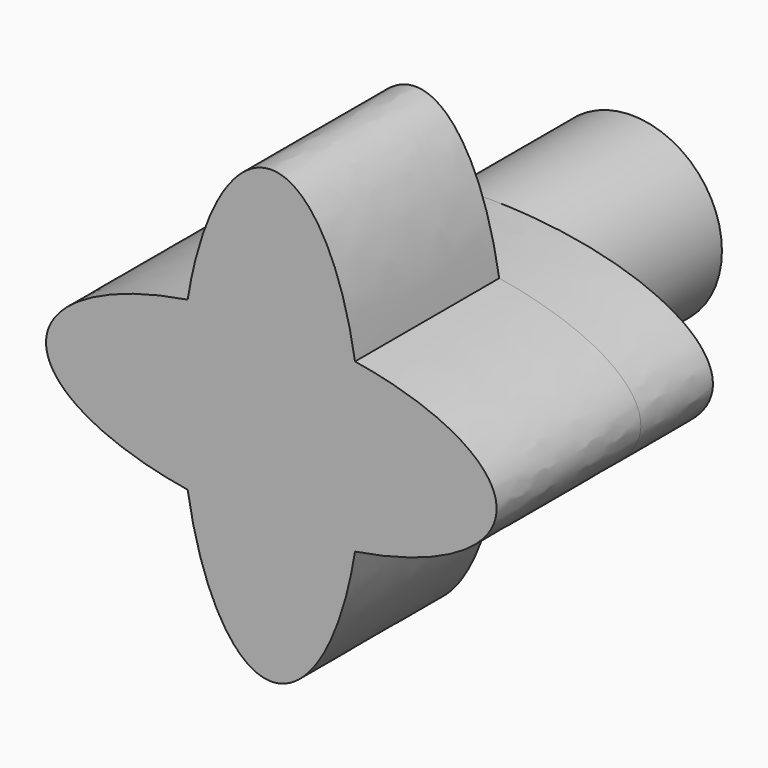
from build123d import *

# Parameters (mm, degrees)
F1_DEPTH = 10
F2_R     = 10
F3_DEPTH = 20
F5_DEPTH = 20


with BuildPart() as f1:
    # F0 (on Front) → F1 (new body)
    with BuildSketch(Plane.XZ):
        with BuildLine():
            add(Edge.make_bspline(
                [(-25, 0), (-25, -17.3205080757), (12.5, -8.6602540378), (50, 0), (12.5, 8.6602540378), (-25, 17.3205080757), (-25, 0)],
                knots=[0, 0, 0, 2.0943951024, 2.0943951024, 4.1887902048, 4.1887902048, 6.2831853072, 6.2831853072, 6.2831853072], degree=2, weights=[1, 0.5, 1, 0.5, 1, 0.5, 1]))
        make_face()
    extrude(amount=F1_DEPTH)

    # F2 (on Front) → F3 (join)
    with BuildSketch(Plane.XZ):
        Circle(F2_R)
    extrude(amount=-F3_DEPTH)

    # F4 (on face) → F5 (join)
    with BuildSketch(Plane.XZ.offset(10)):
        with BuildLine():
            add(Edge.make_bspline(
                [(9.2847669089, -9.2847669089), (25, -6.7703296143), (25, 0)],
                knots=[5.0928953575, 5.0928953575, 5.0928953575, 6.2831853072, 6.2831853072, 6.2831853072], degree=2, weights=[1, 0.8280672305, 1]))
            add(Edge.make_bspline(
                [(25, 0), (25, 6.7703296143), (9.2847669089, 9.2847669089)],
                knots=[0, 0, 0, 1.1902899497, 1.1902899497, 1.1902899497], degree=2, weights=[1, 0.8280672305, 1]))
            add(Edge.make_bspline(
                [(9.2847669089, -9.2847669089), (10.7703296143, 0), (9.2847669089, 9.2847669089)],
                knots=[4.3318826033, 4.3318826033, 4.3318826033, 5.0928953575, 5.0928953575, 5.0928953575], degree=2, weights=[1, 0.9284766909, 1]))
        make_face()
        with BuildLine():
            add(Edge.make_bspline(
                [(9.2847669089, -9.2847669089), (10.7703296143, 0), (9.2847669089, 9.2847669089)],
                knots=[4.3318826033, 4.3318826033, 4.3318826033, 5.0928953575, 5.0928953575, 5.0928953575], degree=2, weights=[1, 0.9284766909, 1]))
            add(Edge.make_bspline(
                [(9.2847669089, 9.2847669089), (0, 10.7703296143), (-9.2847669089, 9.2847669089)],
                knots=[1.1902899497, 1.1902899497, 1.1902899497, 1.9513027039, 1.9513027039, 1.9513027039], degree=2, weights=[1, 0.9284766909, 1]))
            add(Edge.make_bspline(
                [(-9.2847669089, 9.2847669089), (-10.7703296143, 0), (-9.2847669089, -9.2847669089)],
                knots=[1.1902899497, 1.1902899497, 1.1902899497, 1.9513027039, 1.9513027039, 1.9513027039], degree=2, weights=[1, 0.9284766909, 1]))
            add(Edge.make_bspline(
                [(-9.2847669089, -9.2847669089), (0, -10.7703296143), (9.2847669089, -9.2847669089)],
                knots=[4.3318826033, 4.3318826033, 4.3318826033, 5.0928953575, 5.0928953575, 5.0928953575], degree=2, weights=[1, 0.9284766909, 1]))
        make_face()
        with BuildLine():
            add(Edge.make_bspline(
                [(9.2847669089, 9.2847669089), (0, 10.7703296143), (-9.2847669089, 9.2847669089)],
                knots=[1.1902899497, 1.1902899497, 1.1902899497, 1.9513027039, 1.9513027039, 1.9513027039], degree=2, weights=[1, 0.9284766909, 1]))
            add(Edge.make_bspline(
                [(9.2847669089, 9.2847669089), (6.7703296143, 25), (0, 25)],
                knots=[5.0928953575, 5.0928953575, 5.0928953575, 6.2831853072, 6.2831853072, 6.2831853072], degree=2, weights=[1, 0.8280672305, 1]))
            add(Edge.make_bspline(
                [(0, 25), (-6.7703296143, 25), (-9.2847669089, 9.2847669089)],
                knots=[0, 0, 0, 1.1902899497, 1.1902899497, 1.1902899497], degree=2, weights=[1, 0.8280672305, 1]))
        make_face()
        with BuildLine():
            add(Edge.make_bspline(
                [(-9.2847669089, -9.2847669089), (0, -67.3145600892), (9.2847669089, -9.2847669089)],
                knots=[1.9513027039, 1.9513027039, 1.9513027039, 4.3318826033, 4.3318826033, 4.3318826033], degree=2, weights=[1, 0.3713906764, 1]))
            add(Edge.make_bspline(
                [(-9.2847669089, -9.2847669089), (0, -10.7703296143), (9.2847669089, -9.2847669089)],
                knots=[4.3318826033, 4.3318826033, 4.3318826033, 5.0928953575, 5.0928953575, 5.0928953575], degree=2, weights=[1, 0.9284766909, 1]))
        make_face()
        with BuildLine():
            add(Edge.make_bspline(
                [(-9.2847669089, 9.2847669089), (-10.7703296143, 0), (-9.2847669089, -9.2847669089)],
                knots=[1.1902899497, 1.1902899497, 1.1902899497, 1.9513027039, 1.9513027039, 1.9513027039], degree=2, weights=[1, 0.9284766909, 1]))
            add(Edge.make_bspline(
                [(-9.2847669089, 9.2847669089), (-67.3145600892, 0), (-9.2847669089, -9.2847669089)],
                knots=[1.9513027039, 1.9513027039, 1.9513027039, 4.3318826033, 4.3318826033, 4.3318826033], degree=2, weights=[1, 0.3713906764, 1]))
        make_face()
    extrude(amount=F5_DEPTH)


solid = f1.part
